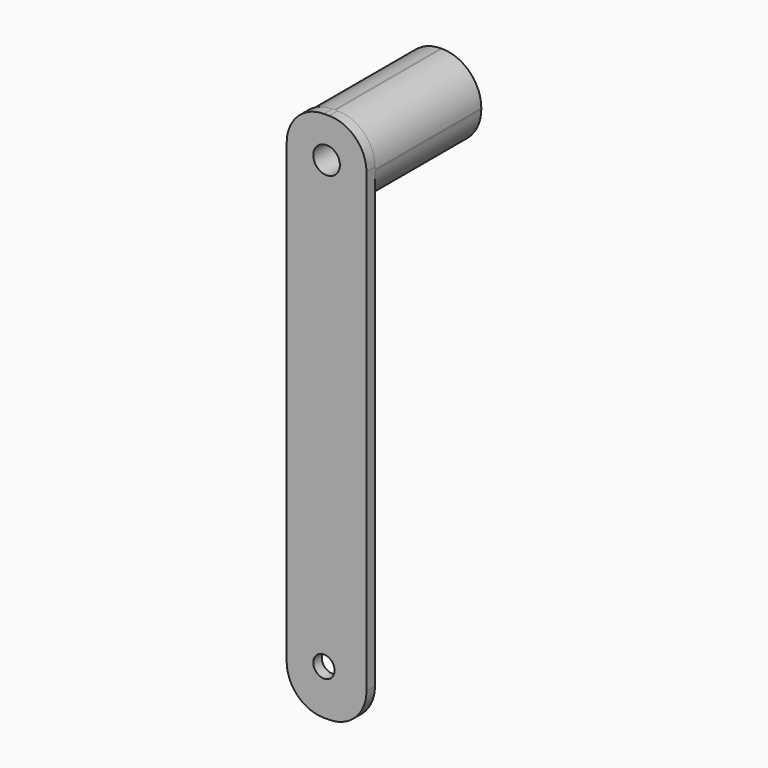
from build123d import *

# Parameters (mm, degrees)
CYLINDER015_R          = 4
CYLINDER015_DEPTH      = 20
CYLINDER015_ROLL_ANGLE = 90
CYLINDER011_R          = 5
CYLINDER011_DEPTH      = 70
CYLINDER011_ROLL_ANGLE = 90
BOX015_W               = 30
BOX015_H               = 50
BOX015_DEPTH           = 30
FILLET011_R            = 14.8
BOX014_W               = 200
BOX014_H               = 4
BOX014_DEPTH           = 30
BOX014_PITCH_ANGLE     = 90
FILLET010_R            = 14


with BuildPart() as cylindre015:
    # Cylinder015 → Cylinder015 (new body)
    with BuildSketch(Plane.XY):
        Circle(CYLINDER015_R)
    extrude(amount=CYLINDER015_DEPTH)


with BuildPart() as cylindre015_1:
    # Cylinder015 roll: moved
    add(cylindre015.part.rotate(Axis((0, 0, 0), (1, 0, 0)), CYLINDER015_ROLL_ANGLE))


with BuildPart() as cylindre015_2:
    # Cylinder015 placement: moved
    add(cylindre015_1.part.moved(Location((-212, -10, -164))))


with BuildPart() as cylindre011:
    # Cylinder011 → Cylinder011 (new body)
    with BuildSketch(Plane.XY):
        Circle(CYLINDER011_R)
    extrude(amount=CYLINDER011_DEPTH)


with BuildPart() as cylindre011_1:
    # Cylinder011 roll: moved
    add(cylindre011.part.rotate(Axis((0, 0, 0), (1, 0, 0)), CYLINDER011_ROLL_ANGLE))


with BuildPart() as cylindre011_2:
    # Cylinder011 placement: moved
    add(cylindre011_1.part.moved(Location((-210, 37, 4))))


with BuildPart() as fillet011:
    # Box015 → Box015 (new body)
    with BuildSketch(Plane(origin=(-225, -21, -11), x_dir=(1, 0, 0), z_dir=(0, 0, 1))):
        with Locations((15, 25)):
            Rectangle(BOX015_W, BOX015_H)
    extrude(amount=BOX015_DEPTH)

    # Fillet011
    fillet011_edges = [fillet011.edges().sort_by_distance(p)[0] for p in [
        (-225, 4, 19),
        (-225, 4, -11),
        (-195, 4, 19),
        (-195, 4, -11),
    ]]
    fillet(fillet011_edges, radius=FILLET011_R)


with BuildPart() as cut020:
    # Box014 → Box014 (new body)
    with BuildSketch(Plane.XY):
        with Locations((100, 2)):
            Rectangle(BOX014_W, BOX014_H)
    extrude(amount=BOX014_DEPTH)


with BuildPart() as cut020_1:
    # Box014 pitch: moved
    add(cut020.part.rotate(Axis((0, 0, 0), (0, 1, 0)), BOX014_PITCH_ANGLE))


with BuildPart() as cut020_2:
    # Box014 placement: moved
    add(cut020_1.part.moved(Location((-225, -25, 18))))

    # Fillet010
    fillet010_edges = [cut020_2.edges().sort_by_distance(p)[0] for p in [
        (-195, -23, 18),
        (-225, -23, 18),
        (-195, -23, -182),
        (-225, -23, -182),
    ]]
    fillet(fillet010_edges, radius=FILLET010_R)


with BuildPart() as cut020_3:
    # Fillet010 placement: moved
    add(cut020_2.part.moved(Location((0, 0, 1))))

    # Fusion009: union Fillet011
    add(fillet011.part)

    # Cut016: cut Cylindre011
    add(cylindre011_2.part, mode=Mode.SUBTRACT)


with BuildPart() as cut020_4:
    # Cut016 placement: moved
    add(cut020_3.part.moved(Location((-1, 0, 0))))

    # Cut020: cut Cylindre015
    add(cylindre015_2.part, mode=Mode.SUBTRACT)


solid = cut020_4.part
